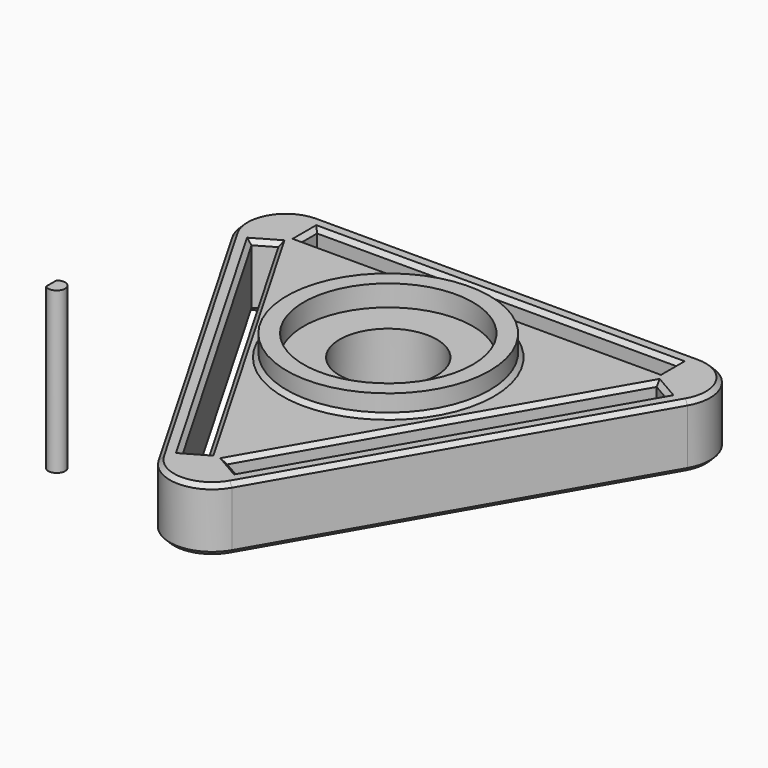
from build123d import *

# Parameters (mm, degrees)
F0_R     = 11.5
F0_W     = 85.143594
F0_H     = 5
F1_DEPTH = 15
F2_R     = 24
F2_R_2   = 20
F3_DEPTH = 5
F4_SIZE  = 1
F5_SIZE  = 1
F7_DEPTH = 38


with BuildPart() as f1:
    # F0 (on Top) → F1 (new body)
    with BuildSketch(Plane.XY):
        with BuildLine():
            Line((71.378684, 54.1525), (-18.9803, 54.1525))
            ThreePointArc((-18.9803, 54.1525), (-27.640554, 49.1525), (-27.640554, 39.1525))
            Line((-27.640554, 39.1525), (17.538938, -39.100676))
            ThreePointArc((17.538938, -39.100676), (26.199192, -44.100676), (34.859446, -39.100676))
            Line((34.859446, -39.100676), (80.038938, 39.1525))
            ThreePointArc((80.038938, 39.1525), (80.038938, 49.1525), (71.378684, 54.1525))
        make_face()
        Polygon((19.699192, -34.842345), (-22.872605, 38.89417), (-18.542478, 41.39417), (24.029319, -32.342345), align=None, mode=Mode.SUBTRACT)
        Polygon((75.270989, 38.89417), (32.699192, -34.842345), (28.369065, -32.342345), (70.940862, 41.39417), align=None, mode=Mode.SUBTRACT)
        with Locations((26.053021, 18.1525)):
            Circle(F0_R, mode=Mode.SUBTRACT)
        with Locations((26.199192, 47.6525)):
            Rectangle(F0_W, F0_H, mode=Mode.SUBTRACT)
    extrude(amount=F1_DEPTH)

    # F2 (on face) → F3 (join)
    with BuildSketch(Plane.XY.offset(15)):
        with Locations((26.053021, 18.1525)):
            Circle(F2_R)
        with Locations((26.053021, 18.1525)):
            Circle(F2_R_2, mode=Mode.SUBTRACT)
    extrude(amount=F3_DEPTH)

    # F4
    f4_edges = [f1.edges().sort_by_distance(p)[0] for p in [
        (80.038938, 49.1525, 15),
        (57.449192, 0.025912, 15),
        (26.199192, 54.1525, 15),
        (26.199192, -44.100676, 15),
        (-27.640554, 49.1525, 15),
        (-5.050808, 0.025912, 15),
        (2.74342, 4.525912, 15),
        (-20.707541, 40.14417, 15),
        (21.864255, -33.592345, 15),
        (-1.586707, 2.025912, 15),
        (73.105925, 40.14417, 15),
        (49.654963, 4.525912, 15),
        (53.98509, 2.025912, 15),
        (30.534128, -33.592345, 15),
        (2.053021, 18.1525, 15),
        (26.199192, 50.1525, 15),
        (-16.372605, 47.6525, 15),
        (68.770989, 47.6525, 15),
        (26.199192, 45.1525, 15),
    ]]
    chamfer(f4_edges, length=F4_SIZE)

    # F5
    f5_edges = [f1.edges().sort_by_distance(p)[0] for p in [
        (80.038938, 49.1525, 0),
        (26.199192, 54.1525, 0),
        (-27.640554, 49.1525, 0),
        (-5.050808, 0.025912, 0),
        (26.199192, -44.100676, 0),
        (57.449192, 0.025912, 0),
        (2.74342, 4.525912, 0),
        (21.864255, -33.592345, 0),
        (-1.586707, 2.025912, 0),
        (-20.707541, 40.14417, 0),
        (73.105925, 40.14417, 0),
        (53.98509, 2.025912, 0),
        (30.534128, -33.592345, 0),
        (49.654963, 4.525912, 0),
        (14.553021, 18.1525, 0),
        (26.199192, 50.1525, 0),
        (68.770989, 47.6525, 0),
        (26.199192, 45.1525, 0),
        (-16.372605, 47.6525, 0),
    ]]
    chamfer(f5_edges, length=F5_SIZE)


with BuildPart() as f7:
    # F6 (on Top) → F7 (new body)
    with BuildSketch(Plane.XY):
        with BuildLine():
            Line((-13.426415, -30.612005), (-13.426415, -33.659841))
            ThreePointArc((-13.426415, -33.659841), (-10.131165, -32.135923), (-13.426415, -30.612005))
        make_face()
    extrude(amount=F7_DEPTH)


solid = Compound([f1.part, f7.part])
